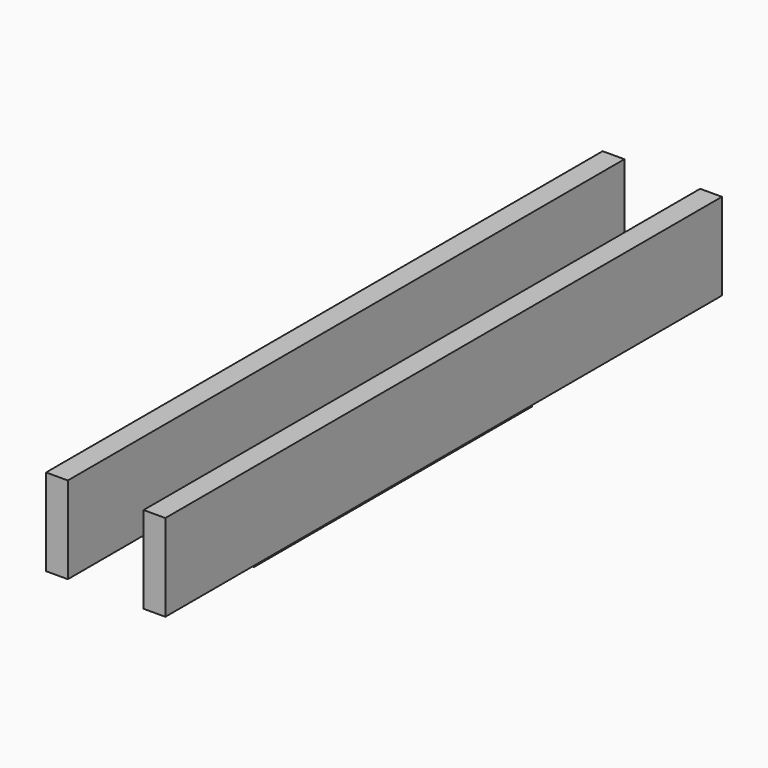
from build123d import *

# Parameters (mm, degrees)
F0_W     = 6.35
F0_H     = 25.4
F1_DEPTH = 101.6
F2_W     = 6.35
F2_H     = 25.4
F4_DEPTH = 101.6
F3_W     = 6.35
F3_H     = 25.4
F5_DEPTH = 50.8


with BuildPart() as f1:
    # F0 (on Front) → F1 (new body, symmetric)
    with BuildSketch(Plane.XZ):
        with Locations((14.759201, 12.666333)):
            Rectangle(F0_W, F0_H)
    extrude(amount=F1_DEPTH, both=True)


with BuildPart() as f4:
    # F2 (on Front) → F4 (new body, symmetric)
    with BuildSketch(Plane.XZ):
        with Locations((-13.721523, 13.068115)):
            Rectangle(F2_W, F2_H)
    extrude(amount=F4_DEPTH, both=True)


with BuildPart() as f5:
    # F3 (on Front) → F5 (new body, symmetric)
    with BuildSketch(Plane.XZ):
        Rectangle(F3_W, F3_H)
    extrude(amount=F5_DEPTH, both=True)


solid = Compound([f1.part, f4.part, f5.part])
